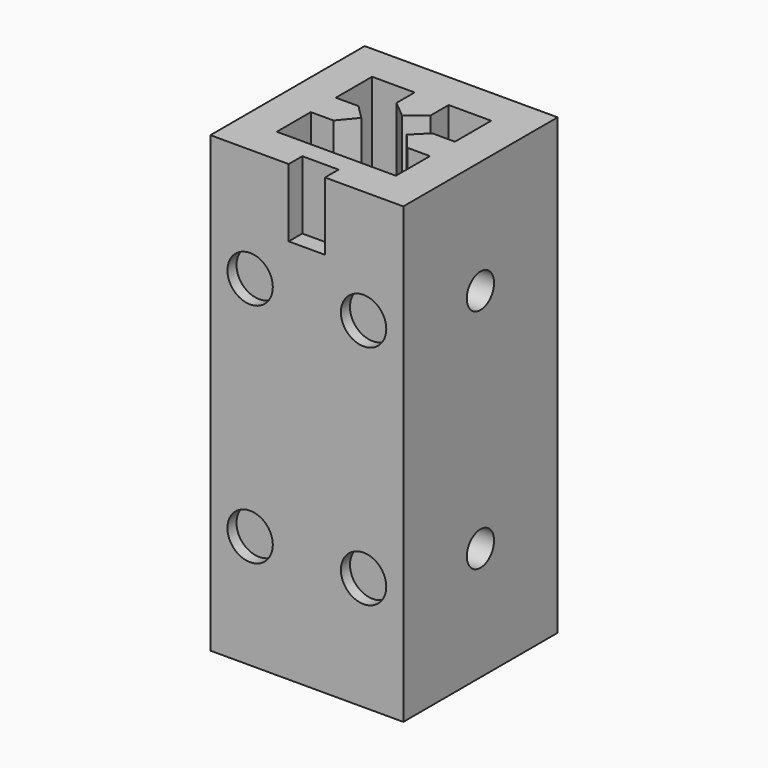
from build123d import *

# Parameters (mm, degrees)
SKETCH_W        = 34
SKETCH_H        = 34
PAD_DEPTH       = 80
POCKET_DEPTH    = 80
SKETCH002_R     = 3
POCKET001_DEPTH = 4
SKETCH003_R     = 3
POCKET002_DEPTH = 4
SKETCH004_R     = 4
POCKET003_DEPTH = 2
SKETCH005_R     = 4
POCKET004_DEPTH = 2
SKETCH006_W     = 6.4
SKETCH006_H     = 3
SKETCH006_W_2   = 8
SKETCH006_H_2   = 8
POCKET005_DEPTH = 12


with BuildPart() as part:
    # Sketch → Pad (new body)
    with BuildSketch(Plane.XY):
        with Locations((17, 17)):
            Rectangle(SKETCH_W, SKETCH_H)
    extrude(amount=PAD_DEPTH)

    # Sketch001 (on Face6 of Pad) → Pocket (cut)
    with BuildSketch(Plane.XY.offset(80)):
        Polygon((6.5, 27.5), (14, 27.5), (14, 23.5), (17, 21), (20, 23.5), (20, 27.5), (27.5, 27.5), (27.5, 19.5), (23.5, 19.5), (21, 17), (23.5, 14), (27.5, 14), (27.5, 6.5), (20, 6.5), (20, 10.5), (17, 13), (14, 10.5), (14, 6.5), (6.5, 6.5), (6.5, 14), (10.5, 14), (13, 17), (10.5, 19.5), (6.5, 19.5), align=None)
    extrude(amount=-POCKET_DEPTH, mode=Mode.SUBTRACT)

    # Sketch002 (on Face2 of Pocket) → Pocket001 (cut)
    with BuildSketch(Plane(origin=(0, 0, 0), x_dir=(0, -1, 0), z_dir=(-1, 0, 0))):
        with Locations((-17, 60)):
            Circle(SKETCH002_R)
        with Locations((-17, 20)):
            Circle(SKETCH002_R)
    extrude(amount=-POCKET001_DEPTH, mode=Mode.SUBTRACT)

    # Sketch003 (on Face3 of Pocket001) → Pocket002 (cut)
    with BuildSketch(Plane.YZ.offset(34)):
        with Locations((17, 60)):
            Circle(SKETCH003_R)
        with Locations((17, 20)):
            Circle(SKETCH003_R)
    extrude(amount=-POCKET002_DEPTH, mode=Mode.SUBTRACT)

    # Sketch004 (on Face1 of Pocket002) → Pocket003 (cut)
    with BuildSketch(Plane(origin=(0, 34, 0), x_dir=(-1, 0, 0), z_dir=(0, 1, 0))):
        with Locations((-27, 60)):
            Circle(SKETCH004_R)
        with Locations((-7, 60)):
            Circle(SKETCH004_R)
        with Locations((-27, 20)):
            Circle(SKETCH004_R)
        with Locations((-7, 20)):
            Circle(SKETCH004_R)
    extrude(amount=-POCKET003_DEPTH, mode=Mode.SUBTRACT)

    # Sketch005 (on Face10 of Pocket003) → Pocket004 (cut)
    with BuildSketch(Plane.XZ):
        with Locations((7, 60)):
            Circle(SKETCH005_R)
        with Locations((27, 60)):
            Circle(SKETCH005_R)
        with Locations((7, 20)):
            Circle(SKETCH005_R)
        with Locations((27, 20)):
            Circle(SKETCH005_R)
    extrude(amount=-POCKET004_DEPTH, mode=Mode.SUBTRACT)

    # Sketch006 (on Face4 of Pocket004) → Pocket005 (cut)
    with BuildSketch(Plane.XY.offset(80)):
        with Locations((17, 1.5)):
            Rectangle(SKETCH006_W, SKETCH006_H)
        with Locations((17, 10.5)):
            Rectangle(SKETCH006_W_2, SKETCH006_H_2)
    extrude(amount=-POCKET005_DEPTH, mode=Mode.SUBTRACT)


solid = part.part
